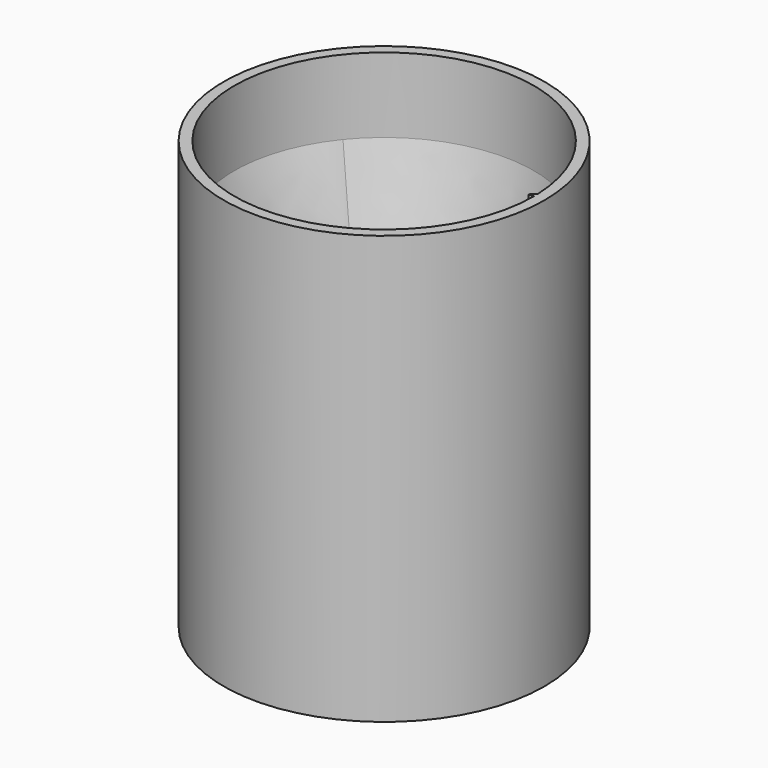
from build123d import *

# Parameters (mm, degrees)
EXTRUDE_DEPTH  = 14
SKETCH_R       = 15
SKETCH_R_2     = 14
PAD_DEPTH      = 20
PAD_DEPTH_BACK = 20
PAD001_DEPTH   = 0.5
PAD002_DEPTH   = 0.5
POCKET_DEPTH   = 7.001
SKETCH012_R    = 14
SKETCH005_R    = 15


with BuildPart() as extrude_body:
    # Sketch009 (on Face1 of CopyCut001) → Extrude (new body)
    with BuildSketch(Plane(origin=(0, 0, -6), x_dir=(1, 0, 0), z_dir=(0, 0, -1))):
        with BuildLine():
            ThreePointArc((-8, -6.408003), (10.25, 0), (-8, 6.408003))
            Line((-8, 6.408003), (-8, -6.408003))
        make_face()
        with BuildLine():
            ThreePointArc((-7, -6.046693), (9.25, 0), (-7, 6.046693))
            Line((-7, -6.046693), (-7, 6.046693))
        make_face(mode=Mode.SUBTRACT)
    extrude(amount=EXTRUDE_DEPTH)


with BuildPart() as body:
    # Sketch → Pad (new body, two sides)
    with BuildSketch(Plane.XY) as pad_sk:
        Circle(SKETCH_R)
        Circle(SKETCH_R_2, mode=Mode.SUBTRACT)
    extrude(amount=PAD_DEPTH)
    extrude(pad_sk.sketch, amount=-PAD_DEPTH_BACK)

    # Sketch002 (on DatumPlane) → Pad001 (join)
    with BuildSketch(Plane.XY.offset(19.5)):
        Polygon((13.5, 0), (14, 0), (14, 0.5), align=None)
    extrude(amount=PAD001_DEPTH)

    # Sketch003 (on DatumPlane) → Pad002 (join)
    with BuildSketch(Plane(origin=(0, 0, -19.5), x_dir=(1, 0, 0), z_dir=(0, 0, -1))):
        Polygon((13.5, 0), (14, 0), (14, 0.5), align=None)
    extrude(amount=PAD002_DEPTH)

    # Sketch010 (on Face1 of CopyExtrude001) → Pocket (cut, through all)
    with BuildSketch(Plane(origin=(-8, 0, 0), x_dir=(0, -1, 0), z_dir=(-1, 0, 0))):
        Polygon((0, 3), (2.828427, 5.828427), (0, 8.656854), (-2.828427, 5.828427), align=None)
    extrude(amount=POCKET_DEPTH, mode=Mode.SUBTRACT)


with BuildPart() as loft001:
    # Sketch007 (on Face1 of CopyLoft001) → Loft001 section 0
    with BuildSketch(Plane(origin=(0, 0, -6), x_dir=(1, 0, 0), z_dir=(0, 0, -1))):
        with BuildLine():
            ThreePointArc((-7, -6.046693), (9.25, 0), (-7, 6.046693))
            Line((-7, 6.046693), (-7, -6.046693))
        make_face()
    # Sketch012 (on Face1 of CopyLoft002) → Loft001 section 1
    with BuildSketch(Plane.XY.offset(13)):
        Circle(SKETCH012_R)
    loft()


with BuildPart() as fusion:
    # Sketch005 (on DatumPlane) → Loft section 0
    with BuildSketch(Plane.XY.offset(13)):
        Circle(SKETCH005_R)
    # Sketch004 (on DatumPlane) → Loft section 1
    with BuildSketch(Plane(origin=(0, 0, -6), x_dir=(1, 0, 0), z_dir=(0, 0, -1))):
        with BuildLine():
            ThreePointArc((-8, -6.408003), (10.25, 0), (-8, 6.408003))
            Line((-8, 6.408003), (-8, -6.408003))
        make_face()
    loft()

    # Cut: cut Loft001
    add(loft001.part, mode=Mode.SUBTRACT)

    # Fusion: union Extrude body, Body
    add(extrude_body.part)
    add(body.part)


solid = fusion.part
